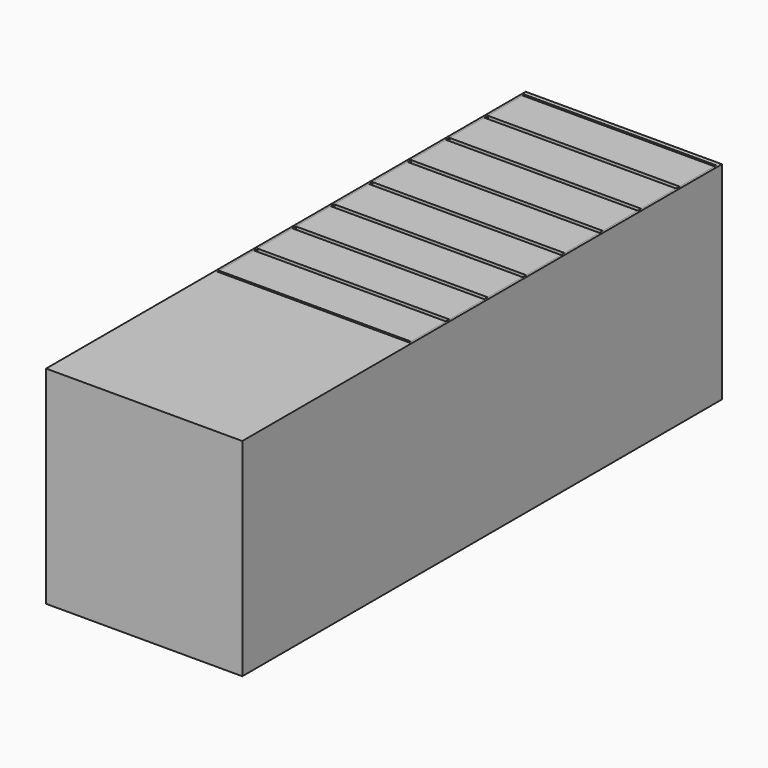
from build123d import *

# Parameters (mm, degrees)
F0_W     = 90
F0_H     = 95
F1_DEPTH = 275
F3_DEPTH = 80
F4_W     = 88
F4_H     = 20
F5_DEPTH = 75


with BuildPart() as f1:
    # F0 (on Front) → F1 (new body)
    with BuildSketch(Plane.XZ):
        with Locations((0, -47.5)):
            Rectangle(F0_W, F0_H)
    extrude(amount=F1_DEPTH)

    # F2 (on face) → F3 (cut)
    with BuildSketch(Plane.XY):
        Polygon((44, -2), (-44, -2), (-44, -24), (-44, -46), (-44, -68), (-44, -90), (-44, -112), (-44, -134), (-44, -156), (-44, -178), (44, -178), (44, -156), (44, -134), (44, -112), (44, -90), (44, -68), (44, -46), (44, -24), align=None)
    extrude(amount=-F3_DEPTH, mode=Mode.SUBTRACT)


with BuildPart() as f5:
    # F4 (on Top) → F5 (new body)
    with BuildSketch(Plane.XY):
        with Locations((0, -13)):
            Rectangle(F4_W, F4_H)
        with Locations((0, -35)):
            Rectangle(F4_W, F4_H)
        with Locations((0, -57)):
            Rectangle(F4_W, F4_H)
        with Locations((0, -79)):
            Rectangle(F4_W, F4_H)
        with Locations((0, -101)):
            Rectangle(F4_W, F4_H)
        with Locations((0, -123)):
            Rectangle(F4_W, F4_H)
        with Locations((0, -145)):
            Rectangle(F4_W, F4_H)
        with Locations((0, -167)):
            Rectangle(F4_W, F4_H)
    extrude(amount=-F5_DEPTH)


solid = Compound([f1.part, f5.part])
